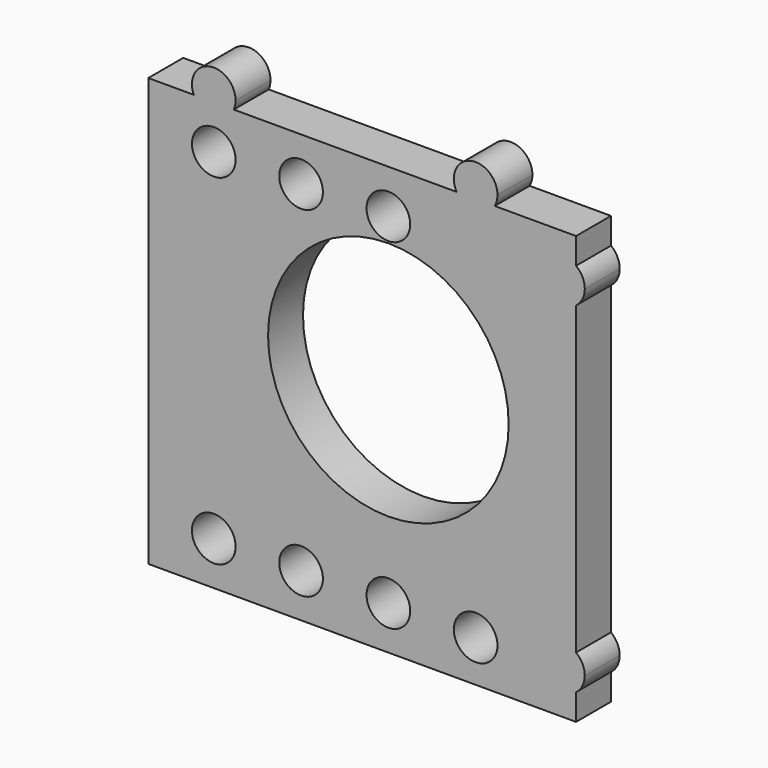
from build123d import *

# Parameters (mm, degrees)
F0_R     = 6.35
F0_R_2   = 35
F1_DEPTH = 12.7


with BuildPart() as f1:
    # F0 (on Front) → F1 (new body)
    with BuildSketch(Plane.XZ):
        with BuildLine():
            Line((-54.2150882115, 69.4085378437), (-67.4452170789, 69.4085378437))
            Line((-67.4452170789, 69.4085378437), (-67.4452170789, -55.0514621563))
            Line((-67.4452170789, -55.0514621563), (57.0147829211, -55.0514621563))
            Line((57.0147829211, -55.0514621563), (57.0147829211, -47.4314621563))
            ThreePointArc((57.0147829211, -47.4314621563), (46.8547829211, -42.3514621563), (57.0147829211, -37.2714621563))
            Line((57.0147829211, -37.2714621563), (57.0147829211, 51.6285378437))
            ThreePointArc((57.0147829211, 51.6285378437), (46.8547829211, 56.7085378437), (57.0147829211, 61.7885378437))
            Line((57.0147829211, 61.7885378437), (57.0147829211, 69.4085378437))
            Line((57.0147829211, 69.4085378437), (33.3440039257, 69.4085378437))
            ThreePointArc((33.3440039257, 69.4085378437), (27.8047829211, 66.1632972002), (22.2655619164, 69.4085378437))
            Line((22.2655619164, 69.4085378437), (-42.5753459463, 69.4085378437))
            ThreePointArc((-42.5753459463, 69.4085378437), (-48.3952170789, 65.5985378437), (-54.2150882115, 69.4085378437))
        make_face()
        with Locations((-48.3952170789, -42.3514621563)):
            Circle(F0_R, mode=Mode.SUBTRACT)
        with Locations((-22.9952170789, -42.3514621563)):
            Circle(F0_R, mode=Mode.SUBTRACT)
        with Locations((2.4047829211, -42.3514621563)):
            Circle(F0_R, mode=Mode.SUBTRACT)
        with Locations((27.8047829211, -42.9162215128)):
            Circle(F0_R, mode=Mode.SUBTRACT)
        with Locations((-48.3952170789, 56.7085378437)):
            Circle(F0_R, mode=Mode.SUBTRACT)
        with Locations((-22.9952170789, 56.7085378437)):
            Circle(F0_R, mode=Mode.SUBTRACT)
        with Locations((2.4047829211, 14.7985378437)):
            Circle(F0_R_2, mode=Mode.SUBTRACT)
        with Locations((2.4047829211, 56.7085378437)):
            Circle(F0_R, mode=Mode.SUBTRACT)
        with BuildLine():
            ThreePointArc((-42.0452170789, 71.9485378437), (-49.6925833164, 78.1645929308), (-54.2150882115, 69.4085378437))
            Line((-54.2150882115, 69.4085378437), (-42.5753459463, 69.4085378437))
            ThreePointArc((-42.5753459463, 69.4085378437), (-42.1791619918, 70.6511716063), (-42.0452170789, 71.9485378437))
        make_face()
        with BuildLine():
            Line((-42.5753459463, 69.4085378437), (-54.2150882115, 69.4085378437))
            ThreePointArc((-54.2150882115, 69.4085378437), (-48.3952170789, 65.5985378437), (-42.5753459463, 69.4085378437))
        make_face()
        with BuildLine():
            ThreePointArc((34.1547829211, 72.5132972002), (26.2003442933, 78.6572598213), (22.2655619164, 69.4085378437))
            Line((22.2655619164, 69.4085378437), (33.3440039257, 69.4085378437))
            ThreePointArc((33.3440039257, 69.4085378437), (33.9487455422, 70.9088585724), (34.1547829211, 72.5132972002))
        make_face()
        with BuildLine():
            Line((33.3440039257, 69.4085378437), (22.2655619164, 69.4085378437))
            ThreePointArc((22.2655619164, 69.4085378437), (27.8047829211, 66.1632972002), (33.3440039257, 69.4085378437))
        make_face()
        with BuildLine():
            ThreePointArc((57.0147829211, -37.2714621563), (46.8547829211, -42.3514621563), (57.0147829211, -47.4314621563))
            Line((57.0147829211, -47.4314621563), (57.0147829211, -37.2714621563))
        make_face()
        with BuildLine():
            Line((57.0147829211, -37.2714621563), (57.0147829211, -47.4314621563))
            ThreePointArc((57.0147829211, -47.4314621563), (58.8843955839, -45.1912684877), (59.5547829211, -42.3514621563))
            ThreePointArc((59.5547829211, -42.3514621563), (58.8843955839, -39.5116558249), (57.0147829211, -37.2714621563))
        make_face()
        with BuildLine():
            ThreePointArc((57.0147829211, 61.7885378437), (46.8547829211, 56.7085378437), (57.0147829211, 51.6285378437))
            Line((57.0147829211, 51.6285378437), (57.0147829211, 61.7885378437))
        make_face()
        with BuildLine():
            Line((57.0147829211, 61.7885378437), (57.0147829211, 51.6285378437))
            ThreePointArc((57.0147829211, 51.6285378437), (58.8843955839, 53.8687315123), (59.5547829211, 56.7085378437))
            ThreePointArc((59.5547829211, 56.7085378437), (58.8843955839, 59.5483441751), (57.0147829211, 61.7885378437))
        make_face()
    extrude(amount=F1_DEPTH)


solid = f1.part
